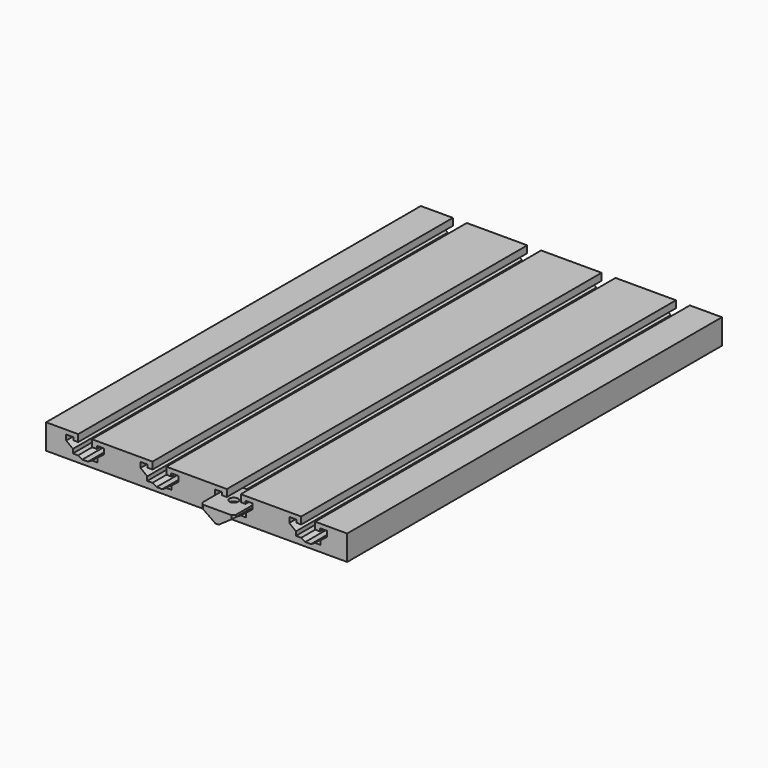
from build123d import *

# Parameters (mm, degrees)
SKETCH001_W         = 180
SKETCH001_H         = 15
PAD_DEPTH           = 280
POCKET_DEPTH        = 280.001
LINEARPATTERN_COUNT = 4
LINEARPATTERN_PITCH = 44.45
PAD001_DEPTH        = 12.5
POCKET001_DEPTH     = 5.5
SKETCH004_R         = 2.6
POCKET002_DEPTH     = 5
CHAMFER_SIZE        = 1.5


with BuildPart() as body:
    # Sketch001 → Pad (new body)
    with BuildSketch(Plane.XZ):
        with Locations((0, -7.5)):
            Rectangle(SKETCH001_W, SKETCH001_H)
    extrude(amount=-PAD_DEPTH)

    # Sketch → Pocket (cut, through all)
    with BuildSketch(Plane.XZ):
        Polygon((-70.825, 0), (-70.825, -4.2), (-73.675, -4.2), (-73.675, -2.5), (-77.975, -2.5), (-77.975, -5.7), (-73.975, -8.8), (-73.975, -11.2), (-70.875, -11.2), (-68.375, -12.6), (-64.975, -12.6), (-62.475, -11.2), (-59.375, -11.2), (-59.375, -8.8), (-55.375, -5.7), (-55.375, -2.5), (-59.675, -2.5), (-59.675, -4.2), (-62.525, -4.2), (-62.525, 0), align=None)
    pocket = extrude(amount=-POCKET_DEPTH, mode=Mode.SUBTRACT)

    # LinearPattern: Pocket ×4
    with Locations(*[(i * LINEARPATTERN_PITCH, 0, 0) for i in range(1, LINEARPATTERN_COUNT)]):
        add(pocket, mode=Mode.SUBTRACT)


with BuildPart() as body001:
    # Sketch002 → Pad001 (new body, symmetric)
    with BuildSketch(Plane.XZ):
        Polygon((-10, -5.736949), (-1, -12), (1, -12), (10, -5.736949), (10, -4.5), (-10, -4.5), align=None)
    extrude(amount=PAD001_DEPTH, both=True)

    # Sketch003 (on Face2 of Pad001) → Pocket001 (cut)
    with BuildSketch(Plane(origin=(0, 0, -12), x_dir=(1, 0, 0), z_dir=(0, 0, -1))):
        Polygon((0, 4.734272), (-4.1, 2.367136), (-4.1, -2.367136), (0, -4.734272), (4.1, -2.367136), (4.1, 2.367136), align=None)
    extrude(amount=-POCKET001_DEPTH, mode=Mode.SUBTRACT)

    # Sketch004 (on Face12 of Pocket001) → Pocket002 (cut)
    with BuildSketch(Plane(origin=(0, 0, -4.5), x_dir=(-1, 0, 0), z_dir=(0, 0, 1))):
        Circle(SKETCH004_R)
    extrude(amount=-POCKET002_DEPTH, mode=Mode.SUBTRACT)

    # Chamfer
    chamfer_edges = [body001.edges().sort_by_distance(p)[0] for p in [
        (-10, -12.5, -5.118474),
        (10, -12.5, -5.118474),
        (-10, 12.5, -5.118474),
        (10, 12.5, -5.118474),
    ]]
    chamfer(chamfer_edges, length=CHAMFER_SIZE)


with BuildPart() as body001_1:
    # Body001 placement: moved
    add(body001.part.moved(Location((22.225, 0, 0))))


solid = Compound([body.part, body001_1.part])
